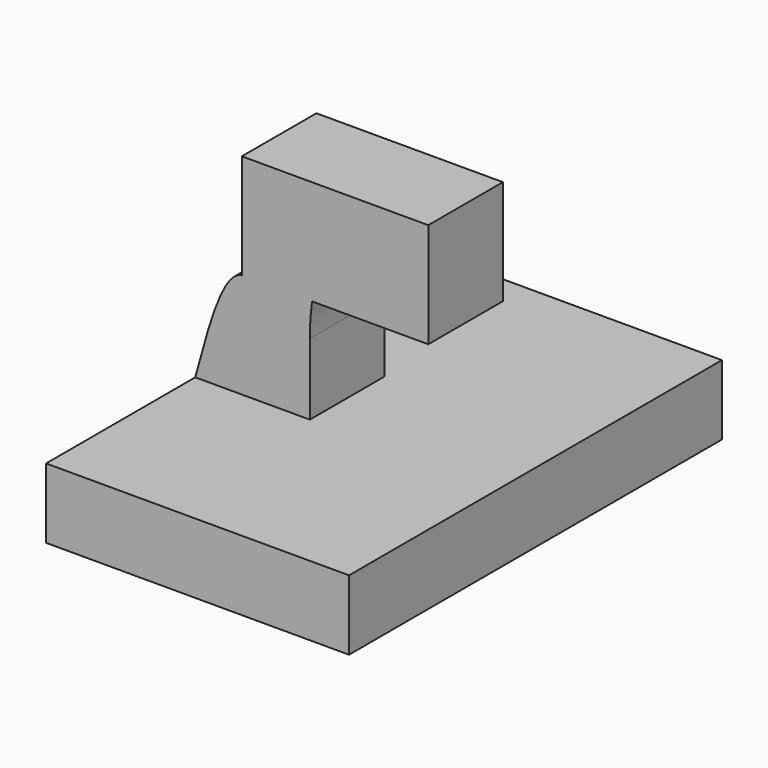
from build123d import *

# Parameters (mm, degrees)
F1_DEPTH = 63.5
F2_DEPTH = 12.7


with BuildPart() as f1:
    # F0 (on Front) → F1 (new body, symmetric)
    with BuildSketch(Plane.XZ):
        Polygon((-41.275, -9.525), (41.275, -9.525), (41.275, 9.525), (-10.0509560453, 9.525), (-41.275, 9.525), align=None)
    extrude(amount=F1_DEPTH, both=True)

    # F0 (on Front) → F2 (join, symmetric)
    with BuildSketch(Plane.XZ):
        Polygon((-41.275, -9.525), (41.275, -9.525), (41.275, 9.525), (-10.0509560453, 9.525), (-41.275, 9.525), align=None)
        with BuildLine():
            add(Edge.make_bspline(
                [(-41.275, 9.525), (-37.5034699803, 23.558229472), (-33.7319399605, 37.591458944), (-28.575, 38.1)],
                knots=[0, 0, 0, 0, 0.4966683216, 0.4966683216, 0.4966683216, 0.4966683216], degree=3))
            Line((-41.275, 9.525), (-10.0509560453, 9.525))
            Line((-10.0509560453, 9.525), (-10.0509560453, 11.8660507724))
            add(Edge.make_bspline(
                [(-27.9799536469, 38.1), (-22.8492211901, 37.6102914345), (-16.4500886177, 24.7381711034), (-10.0509560453, 11.8660507724)],
                knots=[0.5155803853, 0.5155803853, 0.5155803853, 0.5155803853, 1, 1, 1, 1], degree=3))
            Line((-27.9799536469, 38.1), (-28.575, 38.1))
        make_face()
        with BuildLine():
            add(Edge.make_bspline(
                [(-28.575, 38.1), (-28.3786347947, 38.1193641519), (-28.1802608517, 38.1191185478), (-27.9799536469, 38.1)],
                knots=[0.4966683216, 0.4966683216, 0.4966683216, 0.4966683216, 0.5155803853, 0.5155803853, 0.5155803853, 0.5155803853], degree=3))
            Line((-28.575, 38.1), (-27.9799536469, 38.1))
        make_face()
        with BuildLine():
            Line((-28.575, 66.675), (-28.575, 38.1))
            add(Edge.make_bspline(
                [(-28.575, 38.1), (-28.3786347947, 38.1193641519), (-28.1802608517, 38.1191185478), (-27.9799536469, 38.1)],
                knots=[0.4966683216, 0.4966683216, 0.4966683216, 0.4966683216, 0.5155803853, 0.5155803853, 0.5155803853, 0.5155803853], degree=3))
            Line((-27.9799536469, 38.1), (-9.4317409695, 38.1))
            ThreePointArc((-9.4317409695, 38.1), (-5.611580641, 53.0181726772), (1.504356995, 66.675))
            Line((1.504356995, 66.675), (-28.575, 66.675))
        make_face()
        with BuildLine():
            add(Edge.make_bspline(
                [(-27.9799536469, 38.1), (-22.8492211901, 37.6102914345), (-16.4500886177, 24.7381711034), (-10.0509560453, 11.8660507724)],
                knots=[0.5155803853, 0.5155803853, 0.5155803853, 0.5155803853, 1, 1, 1, 1], degree=3))
            Line((-10.0509560453, 11.8660507724), (-10.0509560453, 28.9983373564))
            ThreePointArc((-10.0509560453, 28.9983373564), (-9.8959735619, 33.5596883127), (-9.4317409695, 38.1))
            Line((-9.4317409695, 38.1), (-27.9799536469, 38.1))
        make_face()
        with BuildLine():
            ThreePointArc((1.504356995, 66.675), (-5.611580641, 53.0181726772), (-9.4317409695, 38.1))
            Line((-9.4317409695, 38.1), (22.225, 38.1))
            Line((22.225, 38.1), (22.225, 66.675))
            Line((22.225, 66.675), (1.504356995, 66.675))
        make_face()
    extrude(amount=F2_DEPTH, both=True)


solid = f1.part
